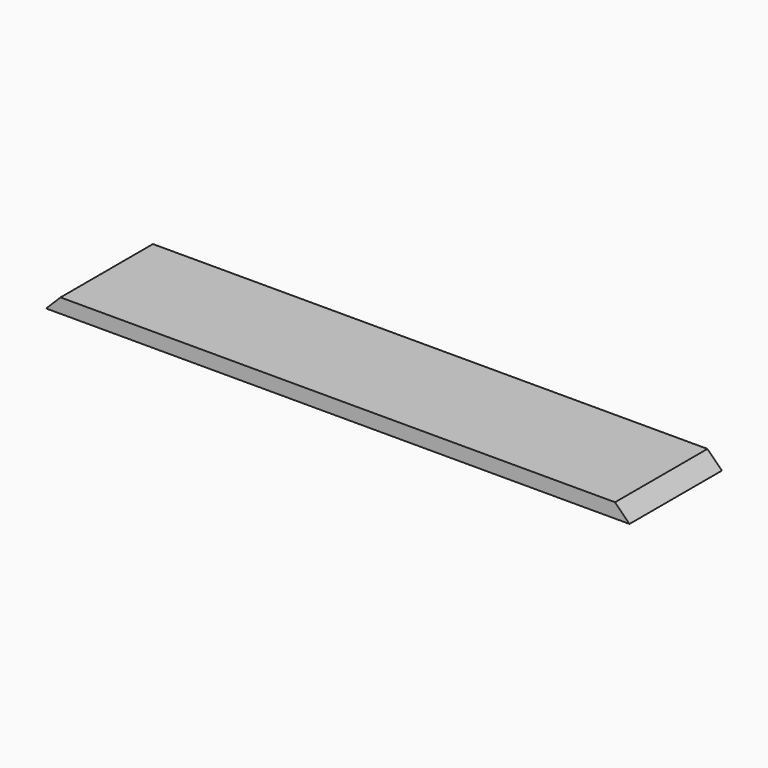
from build123d import *

# Parameters (mm, degrees)
F0_W     = 2565.4
F0_H     = 508
F1_DEPTH = 31.75
F3_DEPTH = 508.001


with BuildPart() as f1:
    # F0 (on Top) → F1 (new body, symmetric)
    with BuildSketch(Plane.XY):
        Rectangle(F0_W, F0_H)
    extrude(amount=F1_DEPTH, both=True)

    # F2 (on face) → F3 (cut, through all)
    with BuildSketch(Plane(origin=(0, 254, 0), x_dir=(-1, 0, 0), z_dir=(0, 1, 0))):
        Polygon((1219.2, 31.75), (1282.7, -31.75), (1282.7, 31.75), align=None)
        Polygon((-1282.7, 31.75), (-1282.7, -31.75), (-1219.2, 31.75), align=None)
    extrude(amount=-F3_DEPTH, mode=Mode.SUBTRACT)


solid = f1.part
